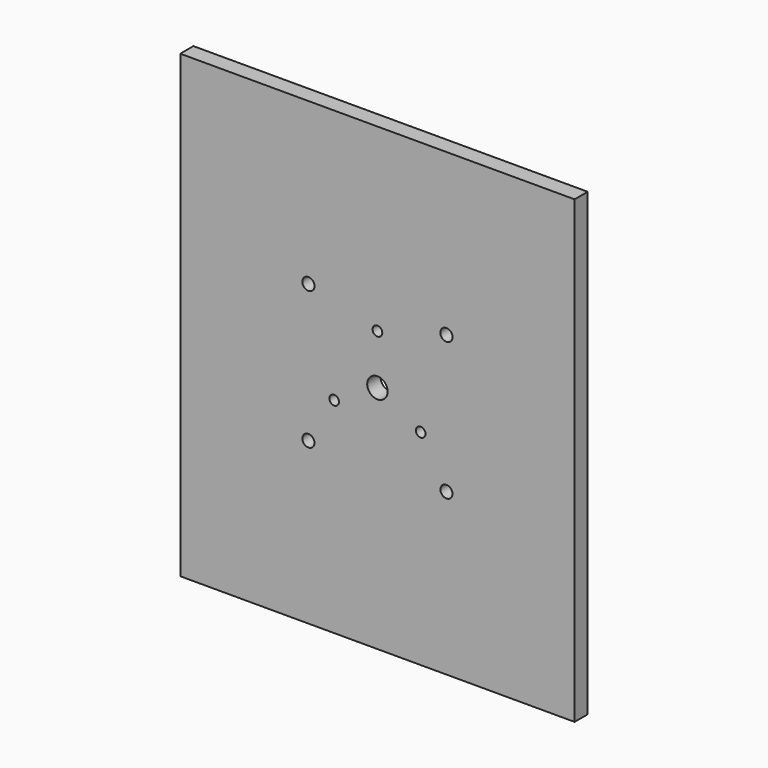
from build123d import *

# Parameters (mm, degrees)
F0_W     = 152.4
F0_H     = 177.8
F0_R     = 1.8415
F0_R_2   = 1.85447
F0_R_3   = 3.942651
F0_R_4   = 1.873541
F1_DEPTH = 6.35
F2_R     = 2.359332
F2_R_2   = 2.327784
F3_DEPTH = 6.351


with BuildPart() as f1:
    # F0 (on Front) → F1 (new body)
    with BuildSketch(Plane.XZ):
        Rectangle(F0_W, F0_H)
        with Locations((-16.722151, -9.654538)):
            Circle(F0_R, mode=Mode.SUBTRACT)
        with Locations((16.717754, -9.652)):
            Circle(F0_R_2, mode=Mode.SUBTRACT)
        Circle(F0_R_3, mode=Mode.SUBTRACT)
        with Locations((0, 19.304)):
            Circle(F0_R_4, mode=Mode.SUBTRACT)
    extrude(amount=F1_DEPTH)

    # F2 (on face) → F3 (cut, through all)
    with BuildSketch(Plane.XZ.offset(6.35)):
        with Locations((26.67, 26.67)):
            Circle(F2_R)
        with Locations((26.67, -26.67)):
            Circle(F2_R_2)
        with Locations((-26.67, -26.67)):
            Circle(F2_R_2)
        with Locations((-26.67, 26.67)):
            Circle(F2_R)
    extrude(amount=-F3_DEPTH, mode=Mode.SUBTRACT)


solid = f1.part
